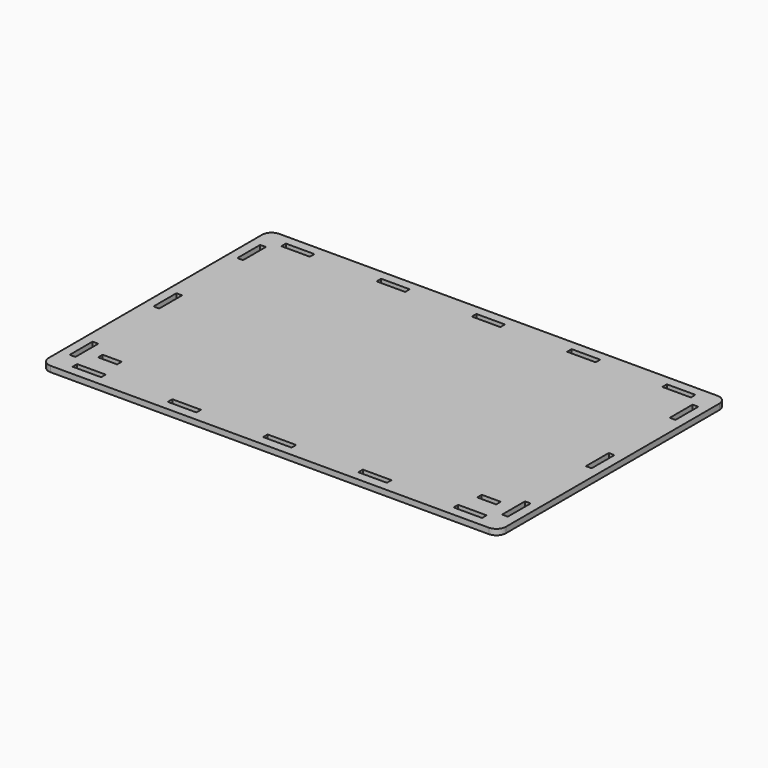
from build123d import *

# Parameters (mm, degrees)
F0_W     = 15
F0_H     = 3
F0_W_2   = 3
F0_H_2   = 15
F0_W_3   = 10
F1_DEPTH = 3


with BuildPart() as f1:
    # F0 (on Top) → F1 (new body)
    with BuildSketch(Plane.XY):
        with BuildLine():
            ThreePointArc((120, 70), (118.535534, 73.535534), (115, 75))
            Line((115, 75), (-115, 75))
            ThreePointArc((-115, 75), (-118.535534, 73.535534), (-120, 70))
            Line((-120, 70), (-120, -70))
            ThreePointArc((-120, -70), (-118.535534, -73.535534), (-115, -75))
            Line((-115, -75), (115, -75))
            ThreePointArc((115, -75), (118.535534, -73.535534), (120, -70))
            Line((120, -70), (120, 70))
        make_face()
        with Locations((-100, -68.5)):
            Rectangle(F0_W, F0_H, mode=Mode.SUBTRACT)
        with Locations((-113.5, -55)):
            Rectangle(F0_W_2, F0_H_2, mode=Mode.SUBTRACT)
        with Locations((-99.5, -55.5)):
            Rectangle(F0_W_3, F0_H, mode=Mode.SUBTRACT)
        with Locations((-50, -68.5)):
            Rectangle(F0_W, F0_H, mode=Mode.SUBTRACT)
        with Locations((0, -68.5)):
            Rectangle(F0_W, F0_H, mode=Mode.SUBTRACT)
        with Locations((50, -68.5)):
            Rectangle(F0_W, F0_H, mode=Mode.SUBTRACT)
        with Locations((100, -68.5)):
            Rectangle(F0_W, F0_H, mode=Mode.SUBTRACT)
        with Locations((99.5, -55.5)):
            Rectangle(F0_W_3, F0_H, mode=Mode.SUBTRACT)
        with Locations((113.5, -55)):
            Rectangle(F0_W_2, F0_H_2, mode=Mode.SUBTRACT)
        with Locations((-113.5, 0)):
            Rectangle(F0_W_2, F0_H_2, mode=Mode.SUBTRACT)
        with Locations((-113.5, 55)):
            Rectangle(F0_W_2, F0_H_2, mode=Mode.SUBTRACT)
        with Locations((-100, 68.5)):
            Rectangle(F0_W, F0_H, mode=Mode.SUBTRACT)
        with Locations((-50, 68.5)):
            Rectangle(F0_W, F0_H, mode=Mode.SUBTRACT)
        with Locations((113.5, 0)):
            Rectangle(F0_W_2, F0_H_2, mode=Mode.SUBTRACT)
        with Locations((0, 68.5)):
            Rectangle(F0_W, F0_H, mode=Mode.SUBTRACT)
        with Locations((50, 68.5)):
            Rectangle(F0_W, F0_H, mode=Mode.SUBTRACT)
        with Locations((113.5, 55)):
            Rectangle(F0_W_2, F0_H_2, mode=Mode.SUBTRACT)
        with Locations((100, 68.5)):
            Rectangle(F0_W, F0_H, mode=Mode.SUBTRACT)
    extrude(amount=F1_DEPTH)


solid = f1.part
